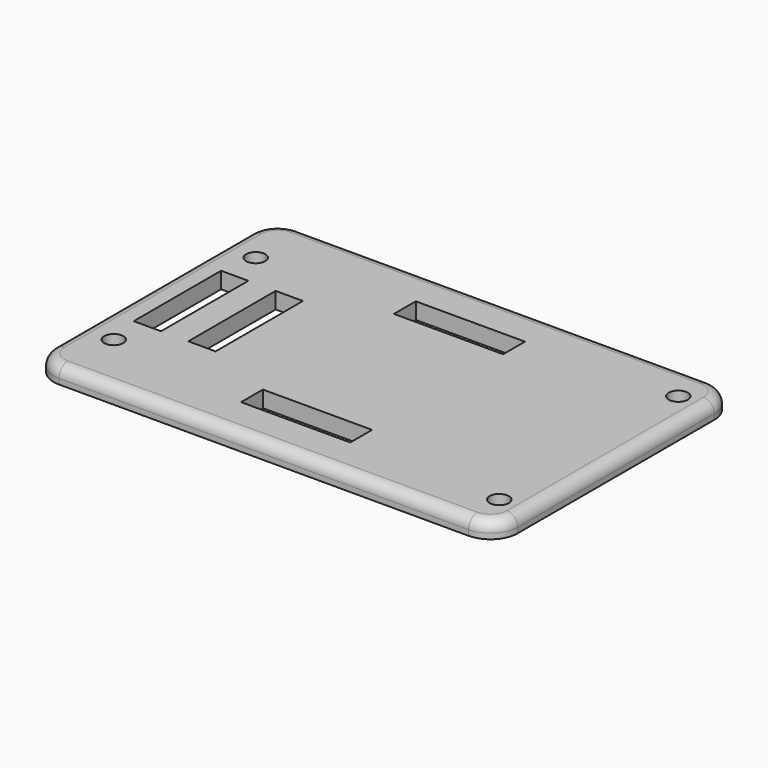
from build123d import *

# Parameters (mm, degrees)
F0_R     = 1.75
F0_W     = 20
F0_H     = 5
F0_W_2   = 5
F0_H_2   = 20
F1_DEPTH = 3
F2_R     = 2


with BuildPart() as f1:
    # F0 (on Top) → F1 (new body)
    with BuildSketch(Plane.XY):
        with BuildLine():
            ThreePointArc((0, 22.5), (-1.464466, 26.035534), (-5, 27.5))
            Line((-5, 27.5), (-80, 27.5))
            ThreePointArc((-80, 27.5), (-83.535534, 26.035534), (-85, 22.5))
            Line((-85, 22.5), (-85, -22.5))
            ThreePointArc((-85, -22.5), (-83.535534, -26.035534), (-80, -27.5))
            Line((-80, -27.5), (-5, -27.5))
            ThreePointArc((-5, -27.5), (-1.464466, -26.035534), (0, -22.5))
            Line((0, -22.5), (0, 22.5))
        make_face()
        with Locations((-79, -16.25)):
            Circle(F0_R, mode=Mode.SUBTRACT)
        with Locations((-42.682318, -17.5)):
            Rectangle(F0_W, F0_H, mode=Mode.SUBTRACT)
        with Locations((-5, -20.5)):
            Circle(F0_R, mode=Mode.SUBTRACT)
        with Locations((-77.844905, 0)):
            Rectangle(F0_W_2, F0_H_2, mode=Mode.SUBTRACT)
        with Locations((-67.844905, 0)):
            Rectangle(F0_W_2, F0_H_2, mode=Mode.SUBTRACT)
        with Locations((-79, 16.25)):
            Circle(F0_R, mode=Mode.SUBTRACT)
        with Locations((-42.682318, 17.5)):
            Rectangle(F0_W, F0_H, mode=Mode.SUBTRACT)
        with Locations((-5, 20.5)):
            Circle(F0_R, mode=Mode.SUBTRACT)
    extrude(amount=F1_DEPTH)

    # F2
    f2_edges = [f1.edges().sort_by_distance(p)[0] for p in [
        (-85, 0, 3),
    ]]
    fillet(f2_edges, radius=F2_R)


solid = f1.part
